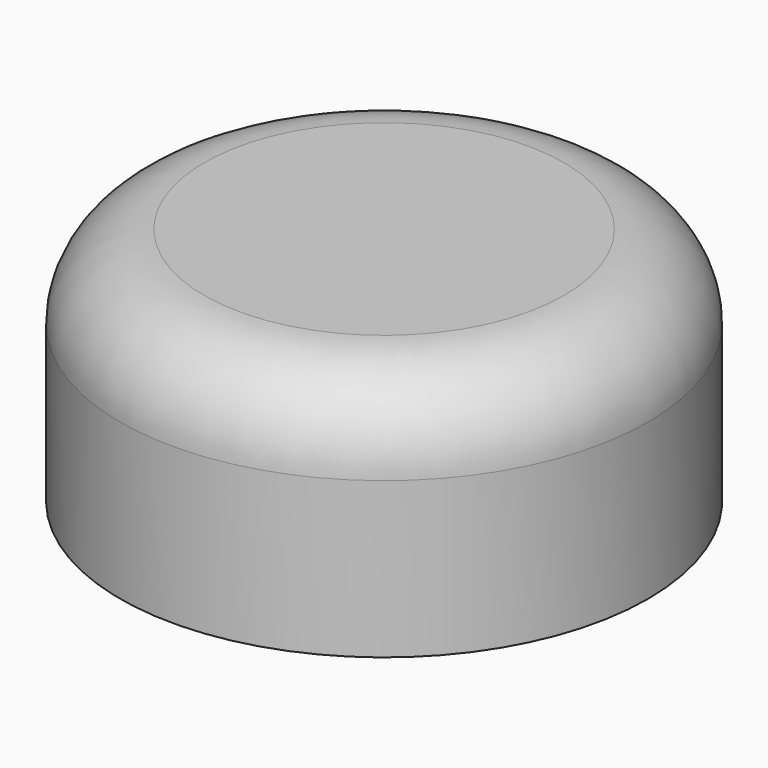
from build123d import *

# Parameters (mm, degrees)
F0_R     = 79.7122
F1_DEPTH = 72.39
F2_R     = 25.4
F3_T     = -2.54


with BuildPart() as f1:
    # F0 (on Top) → F1 (new body)
    with BuildSketch(Plane.XY):
        with Locations((-31.042261, 11.334619)):
            Circle(F0_R)
    extrude(amount=F1_DEPTH)

    # F2
    f2_edges = [f1.edges().sort_by_distance(p)[0] for p in [
        (-110.754461, 11.334619, 72.39),
    ]]
    fillet(f2_edges, radius=F2_R)

    # F3
    f3_openings = [f1.faces().sort_by_distance(p)[0] for p in [
        (-31.042261, 11.334619, 0),
    ]]
    offset(amount=F3_T, openings=f3_openings)


solid = f1.part
